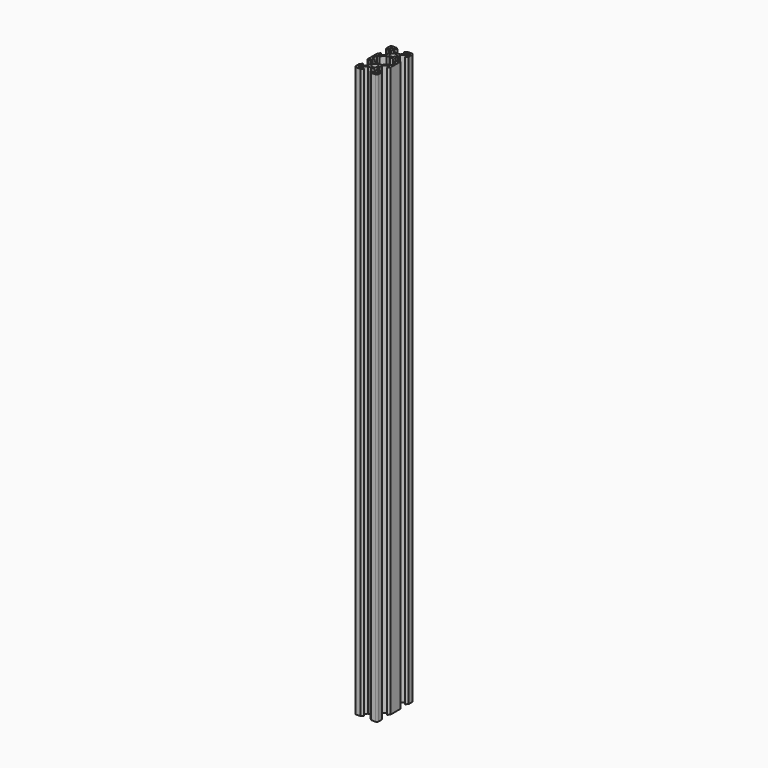
from build123d import *

# Parameters (mm, degrees)
F0_R     = 2.5
F1_DEPTH = 500


with BuildPart() as f1:
    # F0 (on Top) → F1 (new body)
    with BuildSketch(Plane.XY):
        with BuildLine():
            Line((-0.206975, 13.902523), (-2.845819, 13.902523))
            Line((-2.845819, 13.902523), (-5.497237, 16.55394))
            Line((-5.497237, 16.55394), (-5.497237, 18.202523))
            Line((-5.497237, 18.202523), (-2.885113, 18.202523))
            Line((-2.885113, 18.202523), (-2.885113, 18.30915))
            Line((-2.885113, 18.30915), (-4.400227, 19.824264))
            ThreePointArc((-4.400227, 19.824264), (-4.594881, 19.954328), (-4.824491, 20))
            Line((-4.824491, 20), (-8.5, 20))
            ThreePointArc((-8.5, 20), (-9.074025, 19.885819), (-9.56066, 19.56066))
            ThreePointArc((-9.56066, 19.56066), (-9.885819, 19.074025), (-10, 18.5))
            Line((-10, 18.5), (-10, 14.824491))
            ThreePointArc((-10, 14.824491), (-9.954328, 14.594881), (-9.824264, 14.400227))
            Line((-9.824264, 14.400227), (-8.30915, 12.885113))
            Line((-8.30915, 12.885113), (-8.202523, 12.885113))
            Line((-8.202523, 12.885113), (-8.202523, 15.497237))
            Line((-8.202523, 15.497237), (-6.55394, 15.497237))
            Line((-6.55394, 15.497237), (-3.902523, 12.845819))
            Line((-3.902523, 12.845819), (-3.902523, 10.206975))
            Line((-3.902523, 10.206975), (-3.695548, 10))
            Line((-3.695548, 10), (-3.902523, 9.793025))
            Line((-3.902523, 9.793025), (-3.902523, 7.154181))
            Line((-3.902523, 7.154181), (-6.55394, 4.502763))
            Line((-6.55394, 4.502763), (-8.202523, 4.502763))
            Line((-8.202523, 4.502763), (-8.202523, 7.114887))
            Line((-8.202523, 7.114887), (-8.30915, 7.114887))
            Line((-8.30915, 7.114887), (-9.824264, 5.599773))
            ThreePointArc((-9.824264, 5.599773), (-9.954328, 5.405119), (-10, 5.175509))
            Line((-10, 5.175509), (-10, 0))
            Line((-10, 0), (-10, -5.175509))
            ThreePointArc((-10, -5.175509), (-9.954328, -5.405119), (-9.824264, -5.599773))
            Line((-9.824264, -5.599773), (-8.30915, -7.114887))
            Line((-8.30915, -7.114887), (-8.202523, -7.114887))
            Line((-8.202523, -7.114887), (-8.202523, -4.502763))
            Line((-8.202523, -4.502763), (-6.55394, -4.502763))
            Line((-6.55394, -4.502763), (-3.902523, -7.154181))
            Line((-3.902523, -7.154181), (-3.902523, -9.793025))
            Line((-3.902523, -9.793025), (-3.695548, -10))
            Line((-3.695548, -10), (-3.902523, -10.206975))
            Line((-3.902523, -10.206975), (-3.902523, -12.845819))
            Line((-3.902523, -12.845819), (-6.55394, -15.497237))
            Line((-6.55394, -15.497237), (-8.202523, -15.497237))
            Line((-8.202523, -15.497237), (-8.202523, -12.885113))
            Line((-8.202523, -12.885113), (-8.30915, -12.885113))
            Line((-8.30915, -12.885113), (-9.824264, -14.400227))
            ThreePointArc((-9.824264, -14.400227), (-9.954328, -14.594881), (-10, -14.824491))
            Line((-10, -14.824491), (-10, -18.5))
            ThreePointArc((-10, -18.5), (-9.885819, -19.074025), (-9.56066, -19.56066))
            ThreePointArc((-9.56066, -19.56066), (-9.074025, -19.885819), (-8.5, -20))
            Line((-8.5, -20), (-4.824491, -20))
            ThreePointArc((-4.824491, -20), (-4.594881, -19.954328), (-4.400227, -19.824264))
            Line((-4.400227, -19.824264), (-2.885113, -18.30915))
            Line((-2.885113, -18.30915), (-2.885113, -18.202523))
            Line((-2.885113, -18.202523), (-5.497237, -18.202523))
            Line((-5.497237, -18.202523), (-5.497237, -16.55394))
            Line((-5.497237, -16.55394), (-2.845819, -13.902523))
            Line((-2.845819, -13.902523), (-0.206975, -13.902523))
            Line((-0.206975, -13.902523), (0, -13.695548))
            Line((0, -13.695548), (0.206975, -13.902523))
            Line((0.206975, -13.902523), (2.845819, -13.902523))
            Line((2.845819, -13.902523), (5.497237, -16.55394))
            Line((5.497237, -16.55394), (5.497237, -18.202523))
            Line((5.497237, -18.202523), (2.885113, -18.202523))
            Line((2.885113, -18.202523), (2.885113, -18.30915))
            Line((2.885113, -18.30915), (4.400227, -19.824264))
            ThreePointArc((4.400227, -19.824264), (4.594881, -19.954328), (4.824491, -20))
            Line((4.824491, -20), (8.5, -20))
            ThreePointArc((8.5, -20), (9.074025, -19.885819), (9.56066, -19.56066))
            ThreePointArc((9.56066, -19.56066), (9.885819, -19.074025), (10, -18.5))
            Line((10, -18.5), (10, -14.824491))
            ThreePointArc((10, -14.824491), (9.954328, -14.594881), (9.824264, -14.400227))
            Line((9.824264, -14.400227), (8.30915, -12.885113))
            Line((8.30915, -12.885113), (8.202523, -12.885113))
            Line((8.202523, -12.885113), (8.202523, -15.497237))
            Line((8.202523, -15.497237), (6.55394, -15.497237))
            Line((6.55394, -15.497237), (3.902523, -12.845819))
            Line((3.902523, -12.845819), (3.902523, -10.206975))
            Line((3.902523, -10.206975), (3.695548, -10))
            Line((3.695548, -10), (3.902523, -9.793025))
            Line((3.902523, -9.793025), (3.902523, -7.154181))
            Line((3.902523, -7.154181), (6.55394, -4.502763))
            Line((6.55394, -4.502763), (8.202523, -4.502763))
            Line((8.202523, -4.502763), (8.202523, -7.114887))
            Line((8.202523, -7.114887), (8.30915, -7.114887))
            Line((8.30915, -7.114887), (9.824264, -5.599773))
            ThreePointArc((9.824264, -5.599773), (9.954328, -5.405119), (10, -5.175509))
            Line((10, -5.175509), (10, 0))
            Line((10, 0), (10, 5.175509))
            ThreePointArc((10, 5.175509), (9.954328, 5.405119), (9.824264, 5.599773))
            Line((9.824264, 5.599773), (8.30915, 7.114887))
            Line((8.30915, 7.114887), (8.202523, 7.114887))
            Line((8.202523, 7.114887), (8.202523, 4.502763))
            Line((8.202523, 4.502763), (6.55394, 4.502763))
            Line((6.55394, 4.502763), (3.902523, 7.154181))
            Line((3.902523, 7.154181), (3.902523, 9.793025))
            Line((3.902523, 9.793025), (3.695548, 10))
            Line((3.695548, 10), (3.902523, 10.206975))
            Line((3.902523, 10.206975), (3.902523, 12.845819))
            Line((3.902523, 12.845819), (6.55394, 15.497237))
            Line((6.55394, 15.497237), (8.202523, 15.497237))
            Line((8.202523, 15.497237), (8.202523, 12.885113))
            Line((8.202523, 12.885113), (8.30915, 12.885113))
            Line((8.30915, 12.885113), (9.824264, 14.400227))
            ThreePointArc((9.824264, 14.400227), (9.954328, 14.594881), (10, 14.824491))
            Line((10, 14.824491), (10, 18.5))
            ThreePointArc((10, 18.5), (9.885819, 19.074025), (9.56066, 19.56066))
            ThreePointArc((9.56066, 19.56066), (9.074025, 19.885819), (8.5, 20))
            Line((8.5, 20), (4.824491, 20))
            ThreePointArc((4.824491, 20), (4.594881, 19.954328), (4.400227, 19.824264))
            Line((4.400227, 19.824264), (2.885113, 18.30915))
            Line((2.885113, 18.30915), (2.885113, 18.202523))
            Line((2.885113, 18.202523), (5.497237, 18.202523))
            Line((5.497237, 18.202523), (5.497237, 16.55394))
            Line((5.497237, 16.55394), (2.845819, 13.902523))
            Line((2.845819, 13.902523), (0.206975, 13.902523))
            Line((0.206975, 13.902523), (0, 13.695548))
            Line((0, 13.695548), (-0.206975, 13.902523))
        make_face()
        Polygon((-7.11684, -17.11684), (-6.573574, -17.660106), (-6.573574, -18.202523), (-8.202523, -18.202523), (-8.202523, -16.573574), (-7.660106, -16.573574), align=None, mode=Mode.SUBTRACT)
        Polygon((7.11684, -17.11684), (7.660106, -16.573574), (8.202523, -16.573574), (8.202523, -18.202523), (6.573574, -18.202523), (6.573574, -17.660106), align=None, mode=Mode.SUBTRACT)
        with Locations((0, -10)):
            Circle(F0_R, mode=Mode.SUBTRACT)
        Polygon((-6.573574, 18.202523), (-6.573574, 17.660106), (-7.11684, 17.11684), (-7.660106, 16.573574), (-8.202523, 16.573574), (-8.202523, 18.202523), align=None, mode=Mode.SUBTRACT)
        Polygon((0.206975, 6.097477), (2.845819, 6.097477), (6.240773, 2.702523), (8.199174, 2.702523), (8.199174, 0), (8.199174, -2.702523), (6.240773, -2.702523), (2.845819, -6.097477), (0.206975, -6.097477), (0, -6.304452), (-0.206975, -6.097477), (-2.845819, -6.097477), (-6.240773, -2.702523), (-8.199174, -2.702523), (-8.199174, 0), (-8.199174, 2.702523), (-6.240773, 2.702523), (-2.845819, 6.097477), (-0.206975, 6.097477), (0, 6.304452), align=None, mode=Mode.SUBTRACT)
        with Locations((0, 10)):
            Circle(F0_R, mode=Mode.SUBTRACT)
        Polygon((7.11684, 17.11684), (6.573574, 17.660106), (6.573574, 18.202523), (8.202523, 18.202523), (8.202523, 16.573574), (7.660106, 16.573574), align=None, mode=Mode.SUBTRACT)
    extrude(amount=F1_DEPTH)


solid = f1.part
